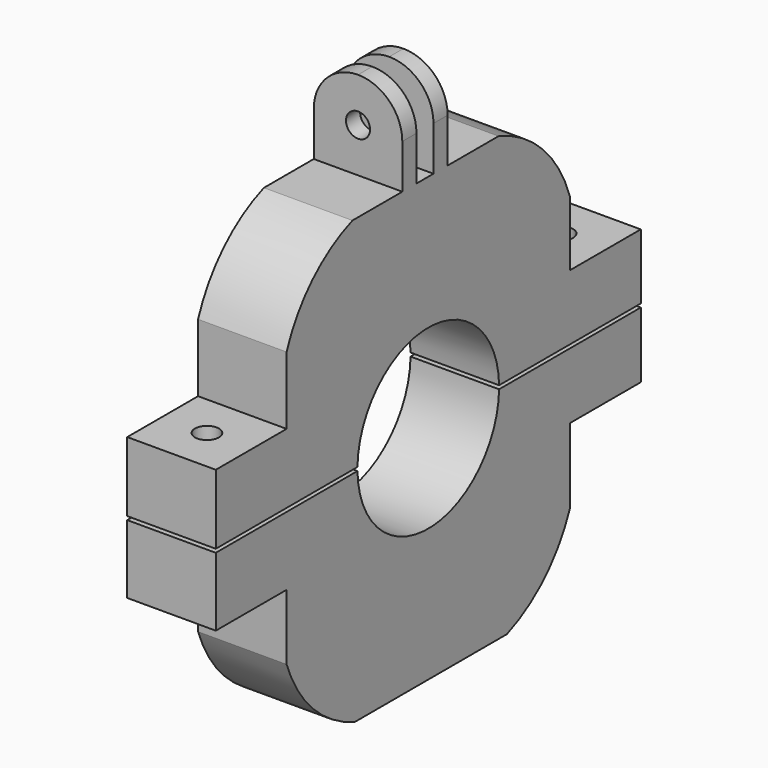
from build123d import *

# Parameters (mm, degrees)
F0_W      = 100
F0_H      = 125
F1_DEPTH  = 25
F2_R      = 25
F3_DEPTH  = 25.001
F5_DEPTH  = 25.001
F6_W      = 25
F6_H      = 40
F7_DEPTH  = 25
F8_W      = 25
F8_H      = 38
F9_DEPTH  = 25
F10_W     = 25
F10_H     = 1
F11_DEPTH = 150.001
F12_R     = 3.4
F13_DEPTH = 60
F14_R     = 3.4
F15_DEPTH = 82.6435668558
F16_R     = 3.4
F17_DEPTH = 82.3584331442
F18_R     = 3.4
F19_DEPTH = 81.5777915887
F20_W     = 25
F20_H     = 30
F21_DEPTH = 25
F24_DEPTH = 88.8387229258
F22_W     = 25
F22_H     = 7
F22_H_2   = 6
F25_DEPTH = 25
F26_R     = 3.4
F27_DEPTH = 81.8387229258


with BuildPart() as f1:
    # F0 (on Right) → F1 (new body)
    with BuildSketch(Plane.YZ):
        Rectangle(F0_W, F0_H)
    extrude(amount=F1_DEPTH)

    # F2 (on face) → F3 (cut, through all)
    with BuildSketch(Plane.YZ.offset(25)):
        Circle(F2_R)
    extrude(amount=-F3_DEPTH, mode=Mode.SUBTRACT)

    # F4 (on face) → F5 (cut, through all)
    with BuildSketch(Plane.YZ.offset(25)):
        with BuildLine():
            ThreePointArc((-50, 39.2622770742), (-40.9491987099, 53.4491987099), (-26.7622770742, 62.5))
            Line((-26.7622770742, 62.5), (-50, 62.5))
            Line((-50, 62.5), (-50, 39.2622770742))
        make_face()
        with BuildLine():
            Line((50, 62.5), (24.7910425067, 62.5))
            ThreePointArc((24.7910425067, 62.5), (40.3932512412, 52.8932512412), (50, 37.2910425067))
            Line((50, 37.2910425067), (50, 62.5))
        make_face()
        with BuildLine():
            Line((50, -62.5), (50, -40.2766680345))
            ThreePointArc((50, -40.2766680345), (41.246497715, -53.746497715), (27.7766680345, -62.5))
            Line((27.7766680345, -62.5), (50, -62.5))
        make_face()
        with BuildLine():
            ThreePointArc((-25.8934732527, -62.5), (-40.7006761297, -53.2006761297), (-50, -38.3934732527))
            Line((-50, -38.3934732527), (-50, -62.5))
            Line((-50, -62.5), (-25.8934732527, -62.5))
        make_face()
    extrude(amount=-F5_DEPTH, mode=Mode.SUBTRACT)

    # F6 (on face) → F7 (join)
    with BuildSketch(Plane.XZ.offset(50)):
        with Locations((12.5, 0.1425668558)):
            Rectangle(F6_W, F6_H)
    extrude(amount=F7_DEPTH)

    # F8 (on face) → F9 (join)
    with BuildSketch(Plane(origin=(0, 50, 0), x_dir=(-1, 0, 0), z_dir=(0, 1, 0))):
        with Locations((-12.5, -0.0767915887)):
            Rectangle(F8_W, F8_H)
    extrude(amount=F9_DEPTH)

    # F10 (on face) → F11 (cut, through all)
    with BuildSketch(Plane(origin=(0, 75, 0), x_dir=(-1, 0, 0), z_dir=(0, 1, 0))):
        with Locations((-12.5, 0)):
            Rectangle(F10_W, F10_H)
    extrude(amount=-F11_DEPTH, mode=Mode.SUBTRACT)

    # F12 (on face) → F13 (cut)
    with BuildSketch(Plane.XY.offset(18.9232084113)):
        with Locations((12.5, 62.5)):
            Circle(F12_R)
    extrude(amount=-F13_DEPTH, mode=Mode.SUBTRACT)

    # F14 (on face) → F15 (cut, through all)
    with BuildSketch(Plane.XY.offset(20.1425668558)):
        with Locations((12.5, -62.5)):
            Circle(F14_R)
    extrude(amount=-F15_DEPTH, mode=Mode.SUBTRACT)

    # F16 (on face) → F17 (cut, through all)
    with BuildSketch(Plane(origin=(0, 0, -19.8574331442), x_dir=(1, 0, 0), z_dir=(0, 0, -1))):
        with Locations((12.5, 62.5)):
            Circle(F16_R)
    extrude(amount=-F17_DEPTH, mode=Mode.SUBTRACT)

    # F18 (on face) → F19 (cut, through all)
    with BuildSketch(Plane(origin=(0, 0, -19.0767915887), x_dir=(1, 0, 0), z_dir=(0, 0, -1))):
        with Locations((12.5, -62.5)):
            Circle(F18_R)
    extrude(amount=-F19_DEPTH, mode=Mode.SUBTRACT)

    # F20 (on face) → F21 (join)
    with BuildSketch(Plane.XY.offset(62.5)):
        with Locations((12.5, -1.1622770742)):
            Rectangle(F20_W, F20_H)
    extrude(amount=F21_DEPTH)

    # F23 (on face) → F24 (cut, through all)
    with BuildSketch(Plane(origin=(0, 13.8377229258, 0), x_dir=(-1, 0, 0), z_dir=(0, 1, 0))):
        with BuildLine():
            ThreePointArc((-12.5, 87.5), (-3.6611652352, 83.8388347648), (0, 75))
            Line((0, 75), (0, 87.5))
            Line((0, 87.5), (-12.5, 87.5))
        make_face()
        with BuildLine():
            ThreePointArc((-25, 75), (-21.3388347648, 83.8388347648), (-12.5, 87.5))
            Line((-12.5, 87.5), (-25, 87.5))
            Line((-25, 87.5), (-25, 75))
        make_face()
    extrude(amount=-F24_DEPTH, mode=Mode.SUBTRACT)

    # F22 (on face) → F25 (cut)
    with BuildSketch(Plane.XY.offset(87.5)):
        with Locations((12.5, -12.6622770742)):
            Rectangle(F22_W, F22_H)
        with Locations((12.5, -1.1622770742)):
            Rectangle(F22_W, F22_H_2)
        with Locations((12.5, 10.3377229258)):
            Rectangle(F22_W, F22_H)
    extrude(amount=-F25_DEPTH, mode=Mode.SUBTRACT)

    # F26 (on face) → F27 (cut, through all)
    with BuildSketch(Plane(origin=(0, 6.8377229258, 0), x_dir=(-1, 0, 0), z_dir=(0, 1, 0))):
        with Locations((-12.5, 75)):
            Circle(F26_R)
    extrude(amount=-F27_DEPTH, mode=Mode.SUBTRACT)


solid = f1.part
